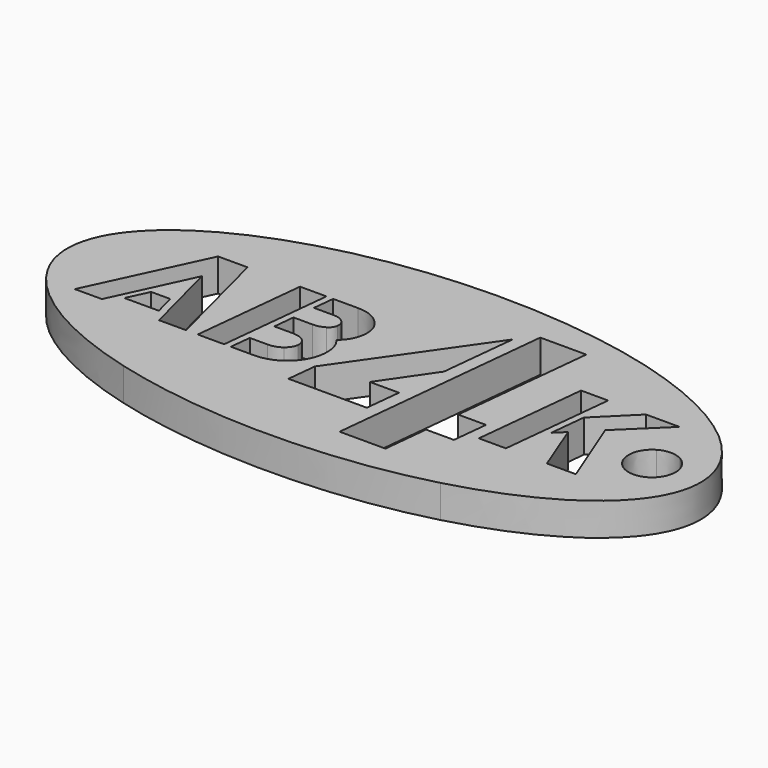
from build123d import *

# Parameters (mm, degrees)
F1_DEPTH = 3


with BuildPart() as f1:
    # F0 (on Top) → F1 (new body)
    with BuildSketch(Plane.XY):
        with BuildLine():
            add(Edge.make_bspline(
                [(29.054011, 0), (29.054011, -4.828194), (23.516348, -9.289629), (14.527006, -11.703725)],
                knots=[0, 0, 0, 0, 1, 1, 1, 1], degree=3))
            add(Edge.make_bspline(
                [(0, 13.514298), (16.046088, 13.514298), (29.054011, 7.46374), (29.054011, 0)],
                knots=[0, 0, 0, 0, 1, 1, 1, 1], degree=3))
            add(Edge.make_bspline(
                [(-29.054011, 0), (-29.054011, 7.463741), (-16.046087, 13.514298), (0, 13.514298)],
                knots=[0, 0, 0, 0, 1, 1, 1, 1], degree=3))
            add(Edge.make_bspline(
                [(-14.527006, -11.703725), (-23.516348, -9.289629), (-29.054011, -4.828194), (-29.054011, 0)],
                knots=[0, 0, 0, 0, 1, 1, 1, 1], degree=3))
            add(Edge.make_bspline(
                [(14.527006, -11.703725), (5.537663, -14.117822), (-5.537663, -14.117822), (-14.527006, -11.703725)],
                knots=[0, 0, 0, 0, 1, 1, 1, 1], degree=3))
        make_face()
        Polygon((-17.887539, -3.45009), (-21.056338, -3.45009), (-20.144766, -1.51119), (-18.408438, -1.51119), align=None, mode=Mode.SUBTRACT)
        Polygon((-18.835285, 2.655998), (-22.206655, -4.585935), (-24.688158, -4.585935), (-19.840909, 5.781389), (-17.142365, 5.781389), (-14.479995, -4.585935), (-16.961498, -4.585935), align=None, mode=Mode.SUBTRACT)
        Polygon((-9.907664, 5.788624), (-10.99287, -4.585935), (-13.416494, -4.585935), (-12.331289, 5.788624), align=None, mode=Mode.SUBTRACT)
        with BuildLine():
            Line((-9.9149, -0.180008), (-9.712328, 1.76613))
            Line((-9.712328, 1.76613), (-7.96153, 1.76613))
            add(Edge.make_bspline(
                [(-7.96153, 1.76613), (-7.56121, 1.76613), (-7.213944, 1.85777), (-6.919733, 2.041049)],
                knots=[0, 0, 0, 0, 1, 1, 1, 1], degree=3))
            add(Edge.make_bspline(
                [(-6.919733, 2.041049), (-6.625522, 2.219504), (-6.466359, 2.448604), (-6.442243, 2.728346)],
                knots=[0, 0, 0, 0, 1, 1, 1, 1], degree=3))
            add(Edge.make_bspline(
                [(-6.442243, 2.728346), (-6.403658, 3.046672), (-6.504944, 3.311944), (-6.7461, 3.524162)],
                knots=[0, 0, 0, 0, 1, 1, 1, 1], degree=3))
            add(Edge.make_bspline(
                [(-6.7461, 3.524162), (-6.996903, 3.73638), (-7.310407, 3.842489), (-7.686611, 3.842489)],
                knots=[0, 0, 0, 0, 1, 1, 1, 1], degree=3))
            Line((-7.686611, 3.842489), (-9.495286, 3.842489))
            Line((-9.495286, 3.842489), (-9.292715, 5.788624))
            Line((-9.292715, 5.788624), (-7.028254, 5.788624))
            add(Edge.make_bspline(
                [(-7.028254, 5.788624), (-6.121505, 5.788624), (-5.383565, 5.499236), (-4.814435, 4.92046)],
                knots=[0, 0, 0, 0, 1, 1, 1, 1], degree=3))
            add(Edge.make_bspline(
                [(-4.814435, 4.92046), (-4.245305, 4.35133), (-4.004149, 3.664033), (-4.090965, 2.85857)],
                knots=[0, 0, 0, 0, 1, 1, 1, 1], degree=3))
            add(Edge.make_bspline(
                [(-4.090965, 2.85857), (-4.172958, 2.091692), (-4.520224, 1.459861), (-5.132762, 0.963078)],
                knots=[0, 0, 0, 0, 1, 1, 1, 1], degree=3))
            add(Edge.make_bspline(
                [(-5.132762, 0.963078), (-4.611864, 0.365011), (-4.402057, -0.399455), (-4.503343, -1.33032)],
                knots=[0, 0, 0, 0, 1, 1, 1, 1], degree=3))
            add(Edge.make_bspline(
                [(-4.503343, -1.33032), (-4.594983, -2.21778), (-4.995303, -2.979835), (-5.704303, -3.616485)],
                knots=[0, 0, 0, 0, 1, 1, 1, 1], degree=3))
            add(Edge.make_bspline(
                [(-5.704303, -3.616485), (-6.43742, -4.262785), (-7.291115, -4.585935), (-8.265388, -4.585935)],
                knots=[0, 0, 0, 0, 1, 1, 1, 1], degree=3))
            Line((-8.265388, -4.585935), (-10.37792, -4.585935))
            Line((-10.37792, -4.585935), (-10.175348, -2.66874))
            Line((-10.175348, -2.66874), (-8.525836, -2.66874))
            add(Edge.make_bspline(
                [(-8.525836, -2.66874), (-8.077285, -2.66874), (-7.681788, -2.540927), (-7.339346, -2.285302)],
                knots=[0, 0, 0, 0, 1, 1, 1, 1], degree=3))
            add(Edge.make_bspline(
                [(-7.339346, -2.285302), (-7.025842, -2.034497), (-6.842563, -1.737875), (-6.789509, -1.395435)],
                knots=[0, 0, 0, 0, 1, 1, 1, 1], degree=3))
            add(Edge.make_bspline(
                [(-6.789509, -1.395435), (-6.755749, -1.0337), (-6.871504, -0.7419), (-7.136774, -0.520035)],
                knots=[0, 0, 0, 0, 1, 1, 1, 1], degree=3))
            add(Edge.make_bspline(
                [(-7.136774, -0.520035), (-7.416516, -0.29335), (-7.79272, -0.180007), (-8.265388, -0.180008)],
                knots=[0, 0, 0, 0, 1, 1, 1, 1], degree=3))
            Line((-8.265388, -0.180008), (-9.9149, -0.180008))
        make_face(mode=Mode.SUBTRACT)
        Polygon((4.677075, 8.904401), (3.952313, 1.941002), (0.811672, -2.634945), (3.483345, -2.634945), (3.142282, -5.88927), (-4.048493, -5.88927), (-3.764273, -3.203385), align=None, mode=Mode.SUBTRACT)
        Polygon((3.9381, -10.010467), (6.041333, 10.368137), (10.262003, 10.368137), (8.911957, -2.634945), (11.469937, -2.634945), (11.128875, -5.88927), (8.570895, -5.88927), (8.144565, -10.010467), align=None, mode=Mode.SUBTRACT)
        Polygon((15.93717, 5.781389), (14.851965, -4.585935), (12.370462, -4.585935), (13.455667, 5.781389), align=None, mode=Mode.SUBTRACT)
        Polygon((15.879293, -0.6792), (16.226557, 2.627059), (19.409828, 5.781389), (22.48458, 5.781389), (18.650182, 2.062753), (21.276383, -4.585935), (18.61401, -4.585935), (16.754693, 0.174495), align=None, mode=Mode.SUBTRACT)
        with BuildLine():
            add(Edge.make_bspline(
                [(25.579439, 1.981337), (26.245717, 1.596661), (26.656161, 0.885751), (26.656161, 0.1164)],
                knots=[0, 0, 0, 0, 1, 1, 1, 1], degree=3))
            add(Edge.make_bspline(
                [(26.656161, 0.1164), (26.656161, -0.652951), (26.245717, -1.363861), (25.579439, -1.748537)],
                knots=[0, 0, 0, 0, 1, 1, 1, 1], degree=3))
            add(Edge.make_bspline(
                [(25.579439, -1.748537), (24.913161, -2.133212), (24.092274, -2.133212), (23.425996, -1.748537)],
                knots=[0, 0, 0, 0, 1, 1, 1, 1], degree=3))
            add(Edge.make_bspline(
                [(23.425996, -1.748537), (22.759718, -1.363861), (22.349274, -0.652951), (22.349274, 0.1164)],
                knots=[0, 0, 0, 0, 1, 1, 1, 1], degree=3))
            add(Edge.make_bspline(
                [(22.349274, 0.1164), (22.349274, 0.885751), (22.759718, 1.596661), (23.425996, 1.981337)],
                knots=[0, 0, 0, 0, 1, 1, 1, 1], degree=3))
            add(Edge.make_bspline(
                [(23.425996, 1.981337), (24.092274, 2.366012), (24.913161, 2.366012), (25.579439, 1.981337)],
                knots=[0, 0, 0, 0, 1, 1, 1, 1], degree=3))
        make_face(mode=Mode.SUBTRACT)
    extrude(amount=F1_DEPTH)


solid = f1.part
